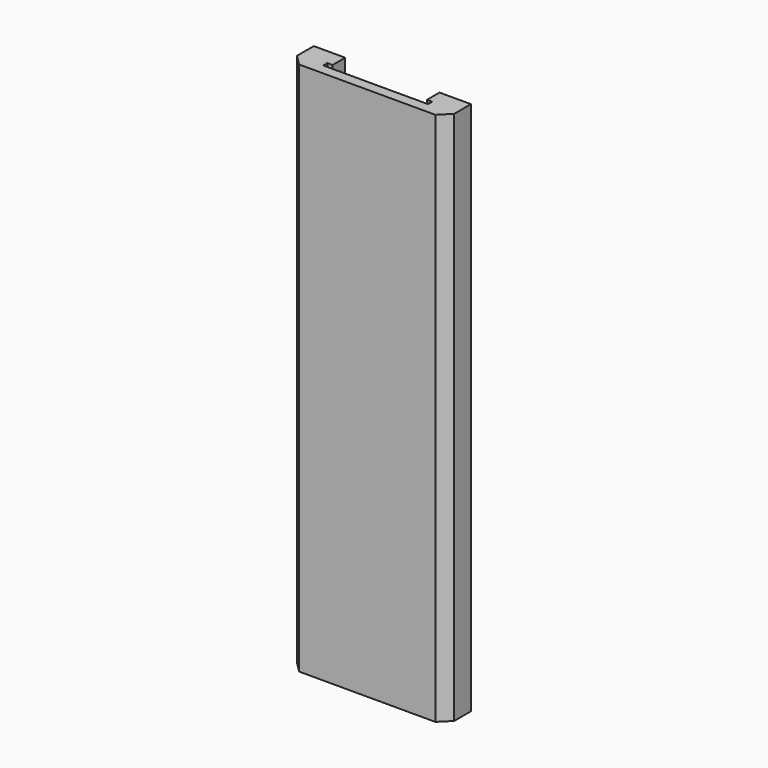
from build123d import *

# Parameters (mm, degrees)
PAD_DEPTH = 51


with BuildPart() as part:
    # Sketch → Pad (new body)
    with BuildSketch(Plane.XY):
        Polygon((-7.5, 3), (-4.5, 3), (-4.5, 1.5), (-5, 1.5), (-5, 1), (5, 1), (5, 1.5), (4.5, 1.5), (4.5, 3), (7.5, 3), (7.5, 1), (6.5, 0), (-6.5, 0), (-7.5, 1), align=None)
    extrude(amount=PAD_DEPTH)


solid = part.part
